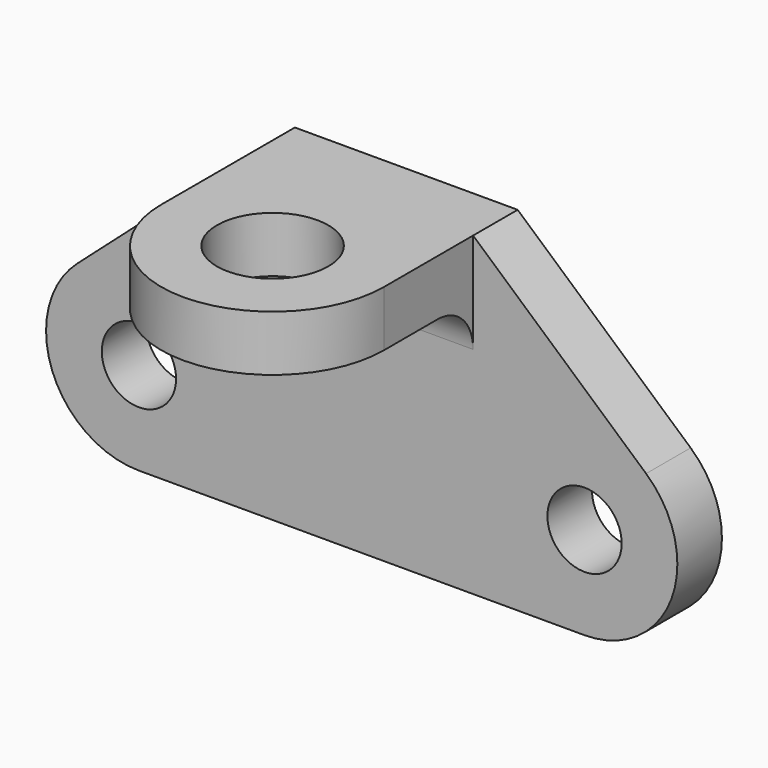
from build123d import *

# Parameters (mm, degrees)
SKETCH_R     = 10
PAD_DEPTH    = 15
SKETCH001_R  = 15
PAD001_DEPTH = 15
FILLET_R     = 12


with BuildPart() as part:
    # Sketch → Pad (new body)
    with BuildSketch(Plane.XZ):
        with BuildLine():
            ThreePointArc((-76.583116, 18.708294), (-83.37421, -8.868276), (-60, -25))
            Line((-60, -25), (60, -25))
            ThreePointArc((60, -25), (83.374198, -8.868308), (76.583166, 18.70825))
            Line((30, 60), (76.583166, 18.70825))
            Line((-30, 60), (30, 60))
            Line((-76.583116, 18.708294), (-30, 60))
        make_face()
        with Locations((-60, 0)):
            Circle(SKETCH_R, mode=Mode.SUBTRACT)
        with Locations((60, 0)):
            Circle(SKETCH_R, mode=Mode.SUBTRACT)
    extrude(amount=PAD_DEPTH)

    # Sketch001 → Pad001 (new body)
    with BuildSketch(Plane(origin=(0, 0, 60), x_dir=(-1, 0, 0), z_dir=(0, 0, 1))):
        with BuildLine():
            ThreePointArc((30, 44.999961), (2e-05, 75), (-30, 45.000001))
            Line((-30, 0), (-30, 45.000001))
            Line((-30, 0), (30, 0))
            Line((30, 0), (30, 44.999961))
        make_face()
        with Locations((0, 45)):
            Circle(SKETCH001_R, mode=Mode.SUBTRACT)
    extrude(amount=-PAD001_DEPTH)

    # Fillet
    fillet_edges = [part.edges().sort_by_distance(p)[0] for p in [
        (0, -15, 45),
    ]]
    fillet(fillet_edges, radius=FILLET_R)


solid = part.part
